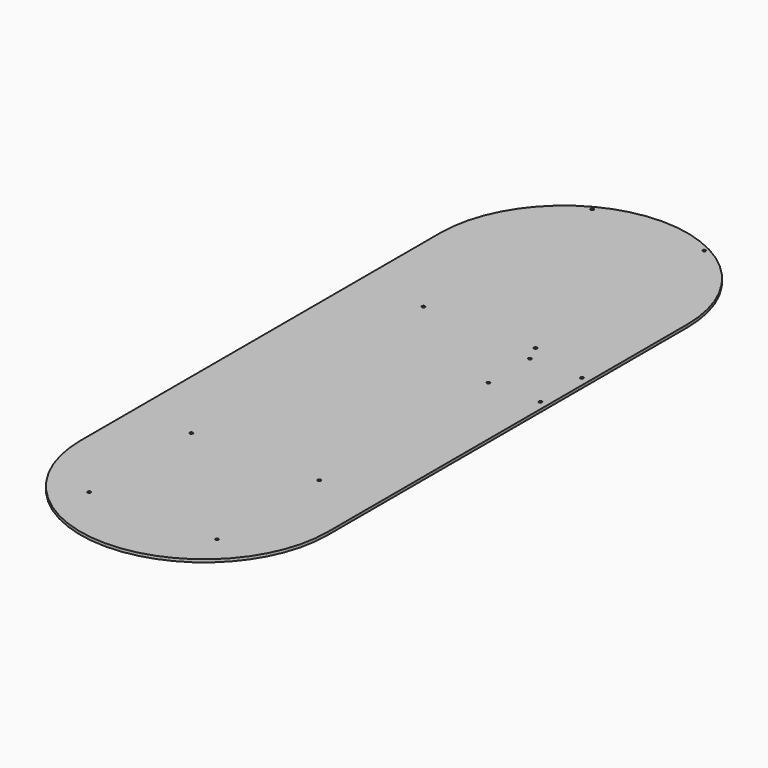
from build123d import *

# Parameters (mm, degrees)
F0_R     = 1.7272
F1_DEPTH = 3.175


with BuildPart() as f1:
    # F0 (on Top) → F1 (new body)
    with BuildSketch(Plane.XY):
        with BuildLine():
            ThreePointArc((279.4, 0), (139.7, 139.7), (0, 0))
            Line((0, 0), (0, -508))
            ThreePointArc((0, -508), (139.7, -647.7), (279.4, -508))
            Line((279.4, -508), (279.4, 0))
        make_face()
        with Locations((67.46875, -580.23125)):
            Circle(F0_R, mode=Mode.SUBTRACT)
        with Locations((67.46875, -435.76875)):
            Circle(F0_R, mode=Mode.SUBTRACT)
        with Locations((211.93125, -580.23125)):
            Circle(F0_R, mode=Mode.SUBTRACT)
        with Locations((211.93125, -435.76875)):
            Circle(F0_R, mode=Mode.SUBTRACT)
        with Locations((76.397731, -119.167746)):
            Circle(F0_R, mode=Mode.SUBTRACT)
        with Locations((76.397731, 119.167746)):
            Circle(F0_R, mode=Mode.SUBTRACT)
        with Locations((203.002269, -119.167746)):
            Circle(F0_R, mode=Mode.SUBTRACT)
        with Locations((211.93125, -196.85)):
            Circle(F0_R, mode=Mode.SUBTRACT)
        with Locations((270.66875, -196.85)):
            Circle(F0_R, mode=Mode.SUBTRACT)
        with Locations((211.93125, -138.1125)):
            Circle(F0_R, mode=Mode.SUBTRACT)
        with Locations((270.66875, -138.1125)):
            Circle(F0_R, mode=Mode.SUBTRACT)
        with Locations((203.002269, 119.167746)):
            Circle(F0_R, mode=Mode.SUBTRACT)
    extrude(amount=F1_DEPTH)


solid = f1.part
